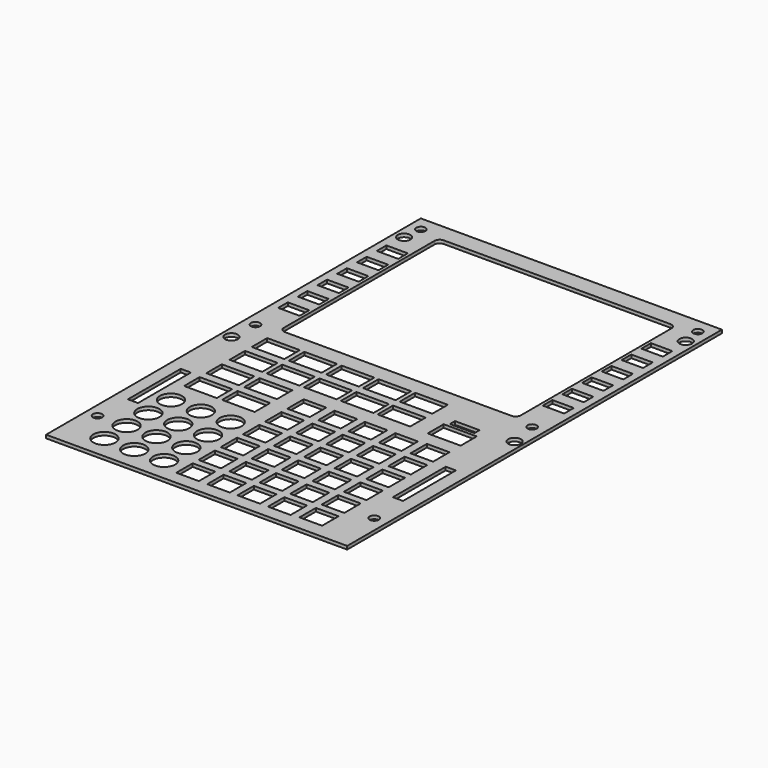
from build123d import *

# Parameters (mm, degrees)
F0_R     = 3.0783701754
F0_R_2   = 3.0694008401
F0_R_3   = 3.0734
F0_R_4   = 2.2209500259
F0_R_5   = 5.3721
F0_R_6   = 5.371402098
F0_W     = 10.9728
F0_H     = 9.9616302735
F0_H_2   = 9.9662298425
F0_R_7   = 5.3689650051
F0_H_3   = 9.9580499146
F0_H_4   = 9.9498699868
F0_W_2   = 4.9276
F0_H_5   = 32.0802
F0_H_6   = 9.9568
F0_R_8   = 2.227429667
F0_R_9   = 2.2179171382
F0_W_3   = 10.414
F0_H_7   = 5.842
F0_W_4   = 10.4202043091
F0_H_8   = 5.8687403347
F0_H_9   = 5.8557569292
F0_H_10  = 5.8308108209
F0_R_10  = 2.2225
F0_W_5   = 15.841782093
F0_H_11  = 9.3845323427
F0_W_6   = 16.036234796
F0_H_12  = 9.7375772893
F0_W_7   = 11.9457282126
F0_H_13  = 3.1131291762
F1_DEPTH = 1.5875


with BuildPart() as f1:
    # F0 (on Top) → F1 (new body)
    with BuildSketch(Plane.XY):
        Polygon((73.0703571429, -113.665), (73.0703571429, 113.665), (0, 113.665), (-73.0703571429, 113.665), (-73.0703571429, -113.665), align=None)
        with Locations((-68.3435052633, -7.1190433962)):
            Circle(F0_R, mode=Mode.SUBTRACT)
        with Locations((69.1050039742, -7.1190433962)):
            Circle(F0_R_2, mode=Mode.SUBTRACT)
        with BuildLine():
            Line((-69.312915206, 111.7357164621), (0, 111.7357164621))
            Line((0, 111.7357164621), (69.312915206, 111.7357164621))
            Line((69.312915206, 111.7357164621), (70.8446985888, 111.7357164621))
            ThreePointArc((70.8446985888, 111.7357164621), (71.742724201, 111.3637420742), (72.1146985888, 110.4657164621))
            Line((72.1146985888, 110.4657164621), (72.1146985888, 108.9375093579))
            Line((72.1146985888, 108.9375093579), (72.1146985888, 104.5530068064))
            ThreePointArc((72.1146985888, 104.5530068064), (71.3707498131, 102.7569555822), (69.5746985888, 102.0130068064))
            Line((69.5746985888, 102.0130068064), (68.3435052633, 102.0130068064))
            ThreePointArc((68.3435052633, 102.0130068064), (65.2400589517, 100.727517254), (63.9545693994, 97.6240709424))
            ThreePointArc((63.9545693994, 97.6240709424), (65.2400589517, 94.5206246308), (68.3435052633, 93.2351350784))
            Line((68.3435052633, 93.2351350784), (69.5746985888, 93.2351350784))
            ThreePointArc((69.5746985888, 93.2351350784), (71.3707498131, 92.4911863026), (72.1146985888, 90.6951350784))
            Line((72.1146985888, 90.6951350784), (72.1146985888, 2.9349678212))
            ThreePointArc((72.1146985888, 2.9349678212), (71.3707498131, 1.138916597), (69.5746985888, 0.3949678212))
            Line((69.5746985888, 0.3949678212), (66.5287750149, 0.3949678212))
            ThreePointArc((66.5287750149, 0.3949678212), (64.7327237907, -0.3489809546), (63.9887750149, -2.1450321788))
            Line((63.9887750149, -2.1450321788), (63.9887750149, -30.4319297588))
            ThreePointArc((63.9887750149, -30.4319297588), (64.7327237907, -32.227980983), (66.5287750149, -32.9719297588))
            Line((66.5287750149, -32.9719297588), (68.1489405847, -32.9719297588))
            ThreePointArc((68.1489405847, -32.9719297588), (69.9449918089, -33.7158785346), (70.6889405847, -35.5119297588))
            Line((70.6889405847, -35.5119297588), (70.6889405847, -91.6318146205))
            ThreePointArc((70.6889405847, -91.6318146205), (69.9449918089, -93.4278658447), (68.1489405847, -94.1718146205))
            Line((68.1489405847, -94.1718146205), (64.1087966347, -94.1718146205))
            ThreePointArc((64.1087966347, -94.1718146205), (62.3127454105, -94.9157633963), (61.5687966347, -96.7118146205))
            Line((61.5687966347, -96.7118146205), (61.5687966347, -107.9170776224))
            ThreePointArc((61.5687966347, -107.9170776224), (60.8248478589, -109.7131288466), (59.0287966347, -110.4570776224))
            Line((59.0287966347, -110.4570776224), (0, -110.4570776224))
            Line((0, -110.4570776224), (-59.0287966347, -110.4570776224))
            ThreePointArc((-59.0287966347, -110.4570776224), (-60.8248478589, -109.7131288466), (-61.5687966347, -107.9170776224))
            Line((-61.5687966347, -107.9170776224), (-61.5687966347, -96.7118146205))
            ThreePointArc((-61.5687966347, -96.7118146205), (-62.3127454105, -94.9157633963), (-64.1087966347, -94.1718146205))
            Line((-64.1087966347, -94.1718146205), (-68.1489405847, -94.1718146205))
            ThreePointArc((-68.1489405847, -94.1718146205), (-69.9449918089, -93.4278658447), (-70.6889405847, -91.6318146205))
            Line((-70.6889405847, -91.6318146205), (-70.6889405847, -35.5119297588))
            ThreePointArc((-70.6889405847, -35.5119297588), (-69.9449918089, -33.7158785346), (-68.1489405847, -32.9719297588))
            Line((-68.1489405847, -32.9719297588), (-66.5287750149, -32.9719297588))
            ThreePointArc((-66.5287750149, -32.9719297588), (-64.7327237907, -32.227980983), (-63.9887750149, -30.4319297588))
            Line((-63.9887750149, -30.4319297588), (-63.9887750149, -2.1450321788))
            ThreePointArc((-63.9887750149, -2.1450321788), (-64.7327237907, -0.3489809546), (-66.5287750149, 0.3949678212))
            Line((-66.5287750149, 0.3949678212), (-69.5746985888, 0.3949678212))
            ThreePointArc((-69.5746985888, 0.3949678212), (-71.3707498131, 1.138916597), (-72.1146985888, 2.9349678212))
            Line((-72.1146985888, 2.9349678212), (-72.1146985888, 90.6951350784))
            ThreePointArc((-72.1146985888, 90.6951350784), (-71.3707498131, 92.4911863026), (-69.5746985888, 93.2351350784))
            Line((-69.5746985888, 93.2351350784), (-68.3435052633, 93.2351350784))
            ThreePointArc((-68.3435052633, 93.2351350784), (-65.2400589517, 94.5206246308), (-63.9545693994, 97.6240709424))
            ThreePointArc((-63.9545693994, 97.6240709424), (-65.2400589517, 100.727517254), (-68.3435052633, 102.0130068064))
            Line((-68.3435052633, 102.0130068064), (-69.5746985888, 102.0130068064))
            ThreePointArc((-69.5746985888, 102.0130068064), (-71.3707498131, 102.7569555822), (-72.1146985888, 104.5530068064))
            Line((-72.1146985888, 104.5530068064), (-72.1146985888, 108.9375093579))
            Line((-72.1146985888, 108.9375093579), (-72.1146985888, 110.4657164621))
            ThreePointArc((-72.1146985888, 110.4657164621), (-71.742724201, 111.3637420742), (-70.8446985888, 111.7357164621))
            Line((-70.8446985888, 111.7357164621), (-69.312915206, 111.7357164621))
        make_face(mode=Mode.SUBTRACT)
        with Locations((-68.3435052633, 97.6240709424)):
            Circle(F0_R_3, mode=Mode.SUBTRACT)
        with BuildLine():
            ThreePointArc((71.4169052633, 97.6240709424), (68.3435052633, 94.5506709424), (65.2701052633, 97.6240709424))
            ThreePointArc((65.2701052633, 97.6240709424), (68.3435052633, 100.6974709424), (71.4169052633, 97.6240709424))
        make_face(mode=Mode.SUBTRACT)
        with BuildLine():
            Line((-57.5045533478, 97.6240709424), (-63.9545693994, 97.6240709424))
            ThreePointArc((-63.9545693994, 97.6240709424), (-65.2400589517, 94.5206246308), (-68.3435052633, 93.2351350784))
            Line((-68.3435052633, 93.2351350784), (-69.5746985888, 93.2351350784))
            ThreePointArc((-69.5746985888, 93.2351350784), (-71.3707498131, 92.4911863026), (-72.1146985888, 90.6951350784))
            Line((-72.1146985888, 90.6951350784), (-72.1146985888, 2.9349678212))
            ThreePointArc((-72.1146985888, 2.9349678212), (-71.3707498131, 1.138916597), (-69.5746985888, 0.3949678212))
            Line((-69.5746985888, 0.3949678212), (-66.5287750149, 0.3949678212))
            ThreePointArc((-66.5287750149, 0.3949678212), (-64.7327237907, -0.3489809546), (-63.9887750149, -2.1450321788))
            Line((-63.9887750149, -2.1450321788), (-63.9887750149, -30.4319297588))
            ThreePointArc((-63.9887750149, -30.4319297588), (-64.7327237907, -32.227980983), (-66.5287750149, -32.9719297588))
            Line((-66.5287750149, -32.9719297588), (-68.1489405847, -32.9719297588))
            ThreePointArc((-68.1489405847, -32.9719297588), (-69.9449918089, -33.7158785346), (-70.6889405847, -35.5119297588))
            Line((-70.6889405847, -35.5119297588), (-70.6889405847, -91.6318146205))
            ThreePointArc((-70.6889405847, -91.6318146205), (-69.9449918089, -93.4278658447), (-68.1489405847, -94.1718146205))
            Line((-68.1489405847, -94.1718146205), (-64.1087966347, -94.1718146205))
            ThreePointArc((-64.1087966347, -94.1718146205), (-62.3127454105, -94.9157633963), (-61.5687966347, -96.7118146205))
            Line((-61.5687966347, -96.7118146205), (-61.5687966347, -107.9170776224))
            ThreePointArc((-61.5687966347, -107.9170776224), (-60.8248478589, -109.7131288466), (-59.0287966347, -110.4570776224))
            Line((-59.0287966347, -110.4570776224), (0, -110.4570776224))
            Line((0, -110.4570776224), (59.0287966347, -110.4570776224))
            ThreePointArc((59.0287966347, -110.4570776224), (60.8248478589, -109.7131288466), (61.5687966347, -107.9170776224))
            Line((61.5687966347, -107.9170776224), (61.5687966347, -96.7118146205))
            ThreePointArc((61.5687966347, -96.7118146205), (62.3127454105, -94.9157633963), (64.1087966347, -94.1718146205))
            Line((64.1087966347, -94.1718146205), (68.1489405847, -94.1718146205))
            ThreePointArc((68.1489405847, -94.1718146205), (69.9449918089, -93.4278658447), (70.6889405847, -91.6318146205))
            Line((70.6889405847, -91.6318146205), (70.6889405847, -35.5119297588))
            ThreePointArc((70.6889405847, -35.5119297588), (69.9449918089, -33.7158785346), (68.1489405847, -32.9719297588))
            Line((68.1489405847, -32.9719297588), (66.5287750149, -32.9719297588))
            ThreePointArc((66.5287750149, -32.9719297588), (64.7327237907, -32.227980983), (63.9887750149, -30.4319297588))
            Line((63.9887750149, -30.4319297588), (63.9887750149, -2.1450321788))
            ThreePointArc((63.9887750149, -2.1450321788), (64.7327237907, -0.3489809546), (66.5287750149, 0.3949678212))
            Line((66.5287750149, 0.3949678212), (69.5746985888, 0.3949678212))
            ThreePointArc((69.5746985888, 0.3949678212), (71.3707498131, 1.138916597), (72.1146985888, 2.9349678212))
            Line((72.1146985888, 2.9349678212), (72.1146985888, 90.6951350784))
            ThreePointArc((72.1146985888, 90.6951350784), (71.3707498131, 92.4911863026), (69.5746985888, 93.2351350784))
            Line((69.5746985888, 93.2351350784), (68.3435052633, 93.2351350784))
            ThreePointArc((68.3435052633, 93.2351350784), (65.2400589517, 94.5206246308), (63.9545693994, 97.6240709424))
            Line((63.9545693994, 97.6240709424), (57.5045533478, 97.6240709424))
            Line((57.5045533478, 97.6240709424), (57.5045533478, 11.1427272046))
            ThreePointArc((57.5045533478, 11.1427272046), (56.760604572, 9.3466759803), (54.9645533478, 8.6027272046))
            Line((54.9645533478, 8.6027272046), (0, 8.6027272046))
            Line((0, 8.6027272046), (-54.9645533478, 8.6027272046))
            ThreePointArc((-54.9645533478, 8.6027272046), (-56.760604572, 9.3466759803), (-57.5045533478, 11.1427272046))
            Line((-57.5045533478, 11.1427272046), (-57.5045533478, 97.6240709424))
        make_face()
        with Locations((-67.5295889378, -89.383713901)):
            Circle(F0_R_4, mode=Mode.SUBTRACT)
        with Locations((-53.8924448192, -102.2618189454)):
            Circle(F0_R_5, mode=Mode.SUBTRACT)
        with Locations((-39.3889211118, -102.2618189454)):
            Circle(F0_R_5, mode=Mode.SUBTRACT)
        with Locations((-53.8924448192, -88.8074412942)):
            Circle(F0_R_5, mode=Mode.SUBTRACT)
        with Locations((-39.3889211118, -88.8074412942)):
            Circle(F0_R_5, mode=Mode.SUBTRACT)
        with Locations((-53.8924448192, -75.584217906)):
            Circle(F0_R_5, mode=Mode.SUBTRACT)
        with Locations((-39.3889211118, -75.584217906)):
            Circle(F0_R_5, mode=Mode.SUBTRACT)
        with Locations((-53.8924448192, -61.8757456541)):
            Circle(F0_R_6, mode=Mode.SUBTRACT)
        with Locations((-39.3889211118, -61.8757456541)):
            Circle(F0_R_5, mode=Mode.SUBTRACT)
        with Locations((-24.9092504382, -102.2618189454)):
            Circle(F0_R_5, mode=Mode.SUBTRACT)
        with Locations((-24.9092504382, -88.8074412942)):
            Circle(F0_R_5, mode=Mode.SUBTRACT)
        with Locations((-9.528928303, -102.2641188744)):
            Rectangle(F0_W, F0_H, mode=Mode.SUBTRACT)
        with Locations((-9.528928303, -88.8021188744)):
            Rectangle(F0_W, F0_H_2, mode=Mode.SUBTRACT)
        with Locations((-24.9092504382, -75.584217906)):
            Circle(F0_R_5, mode=Mode.SUBTRACT)
        with Locations((-24.9092504382, -61.8757456541)):
            Circle(F0_R_7, mode=Mode.SUBTRACT)
        with Locations((-9.528928303, -75.3401188744)):
            Rectangle(F0_W, F0_H_3, mode=Mode.SUBTRACT)
        with Locations((-9.528928303, -61.8781188744)):
            Rectangle(F0_W, F0_H_4, mode=Mode.SUBTRACT)
        with Locations((-64.5344118643, -55.6010992908)):
            Rectangle(F0_W_2, F0_H_5, mode=Mode.SUBTRACT)
        with Locations((-9.528928303, -48.4161188744)):
            Rectangle(F0_W, F0_H_6, mode=Mode.SUBTRACT)
        with Locations((-9.528928303, -34.9541188744)):
            Rectangle(F0_W, F0_H_6, mode=Mode.SUBTRACT)
        with BuildLine():
            ThreePointArc((-60.77754125, 2.0499432153), (-60.0335924742, 3.8459944395), (-58.23754125, 4.5899432153))
            Line((-58.23754125, 4.5899432153), (0, 4.5899432153))
            Line((0, 4.5899432153), (57.4959849632, 4.5899432153))
            ThreePointArc((57.4959849632, 4.5899432153), (59.2920361874, 3.8459944395), (60.0359849632, 2.0499432153))
            Line((60.0359849632, 2.0499432153), (60.0359849632, -23.0634694612))
            ThreePointArc((60.0359849632, -23.0634694612), (59.2920361874, -24.8595206854), (57.4959849632, -25.6034694612))
            Line((57.4959849632, -25.6034694612), (-16.4532081848, -25.6034694612))
            ThreePointArc((-16.4532081848, -25.6034694612), (-18.2492594091, -26.347418237), (-18.9932081848, -28.1434694612))
            Line((-18.9932081848, -28.1434694612), (-18.9932081848, -49.7243886507))
            ThreePointArc((-18.9932081848, -49.7243886507), (-19.7371569606, -51.5204398749), (-21.5332081848, -52.2643886507))
            Line((-21.5332081848, -52.2643886507), (-58.23754125, -52.2643886507))
            ThreePointArc((-58.23754125, -52.2643886507), (-60.0335924742, -51.5204398749), (-60.77754125, -49.7243886507))
            Line((-60.77754125, -49.7243886507), (-60.77754125, 2.0499432153))
        make_face(mode=Mode.SUBTRACT)
        with Locations((5.4864, -102.2641188744)):
            Rectangle(F0_W, F0_H, mode=Mode.SUBTRACT)
        with Locations((5.4864, -88.8021188744)):
            Rectangle(F0_W, F0_H_2, mode=Mode.SUBTRACT)
        with Locations((20.1386223949, -102.2641188744)):
            Rectangle(F0_W, F0_H, mode=Mode.SUBTRACT)
        with Locations((34.9722217239, -102.2641188744)):
            Rectangle(F0_W, F0_H, mode=Mode.SUBTRACT)
        with Locations((20.1386223949, -88.8021188744)):
            Rectangle(F0_W, F0_H_2, mode=Mode.SUBTRACT)
        with Locations((34.9722217239, -88.8021188744)):
            Rectangle(F0_W, F0_H_2, mode=Mode.SUBTRACT)
        with Locations((5.4864, -75.3401188744)):
            Rectangle(F0_W, F0_H_3, mode=Mode.SUBTRACT)
        with Locations((5.4864, -61.8781188744)):
            Rectangle(F0_W, F0_H_4, mode=Mode.SUBTRACT)
        with Locations((20.1386223949, -75.3401188744)):
            Rectangle(F0_W, F0_H_3, mode=Mode.SUBTRACT)
        with Locations((34.9722217239, -75.3401188744)):
            Rectangle(F0_W, F0_H_3, mode=Mode.SUBTRACT)
        with Locations((20.1386223949, -61.8781188744)):
            Rectangle(F0_W, F0_H_4, mode=Mode.SUBTRACT)
        with Locations((34.9722217239, -61.8781188744)):
            Rectangle(F0_W, F0_H_4, mode=Mode.SUBTRACT)
        with Locations((49.8058222801, -101.6926295403)):
            Rectangle(F0_W, F0_H, mode=Mode.SUBTRACT)
        with Locations((49.8058222801, -88.2306295403)):
            Rectangle(F0_W, F0_H_2, mode=Mode.SUBTRACT)
        with Locations((66.8233931065, -89.4396826625)):
            Circle(F0_R_8, mode=Mode.SUBTRACT)
        with Locations((49.8058222801, -74.7686295403)):
            Rectangle(F0_W, F0_H_3, mode=Mode.SUBTRACT)
        with Locations((49.8058222801, -61.3066295403)):
            Rectangle(F0_W, F0_H_4, mode=Mode.SUBTRACT)
        with Locations((5.4864, -48.4161188744)):
            Rectangle(F0_W, F0_H_6, mode=Mode.SUBTRACT)
        with Locations((5.4864, -34.9541188744)):
            Rectangle(F0_W, F0_H_6, mode=Mode.SUBTRACT)
        with Locations((20.1386223949, -48.4161188744)):
            Rectangle(F0_W, F0_H_6, mode=Mode.SUBTRACT)
        with Locations((34.9722217239, -48.4161188744)):
            Rectangle(F0_W, F0_H_6, mode=Mode.SUBTRACT)
        with Locations((20.1386223949, -34.9541188744)):
            Rectangle(F0_W, F0_H_6, mode=Mode.SUBTRACT)
        with Locations((34.9722217239, -34.9541188744)):
            Rectangle(F0_W, F0_H_6, mode=Mode.SUBTRACT)
        with Locations((49.8058222801, -47.8446295403)):
            Rectangle(F0_W, F0_H_6, mode=Mode.SUBTRACT)
        with Locations((49.8058222801, -34.3826295403)):
            Rectangle(F0_W, F0_H_6, mode=Mode.SUBTRACT)
        with Locations((64.0780319404, -55.6010992908)):
            Rectangle(F0_W_2, F0_H_5, mode=Mode.SUBTRACT)
        with Locations((-67.5295889378, 6.4538870938)):
            Circle(F0_R_9, mode=Mode.SUBTRACT)
        with Locations((-64.2052970132, 25.4660822943)):
            Rectangle(F0_W_3, F0_H_7, mode=Mode.SUBTRACT)
        with Locations((-64.2052970132, 37.3290566266)):
            Rectangle(F0_W_3, F0_H_7, mode=Mode.SUBTRACT)
        with Locations((-64.2052970132, 49.3121741972)):
            Rectangle(F0_W_3, F0_H_7, mode=Mode.SUBTRACT)
        with Locations((-64.2083991677, 61.3219178988)):
            Rectangle(F0_W_4, F0_H_8, mode=Mode.SUBTRACT)
        with Locations((-64.2083991677, 73.333547975)):
            Rectangle(F0_W_4, F0_H_9, mode=Mode.SUBTRACT)
        with Locations((-64.2083991677, 85.2885104)):
            Rectangle(F0_W_4, F0_H_10, mode=Mode.SUBTRACT)
        with Locations((66.8091401458, 6.353281904)):
            Circle(F0_R_10, mode=Mode.SUBTRACT)
        with Locations((64.2052970132, 25.4660822943)):
            Rectangle(F0_W_3, F0_H_7, mode=Mode.SUBTRACT)
        with Locations((64.2052970132, 37.3290566266)):
            Rectangle(F0_W_3, F0_H_7, mode=Mode.SUBTRACT)
        with Locations((64.2052970132, 49.3121741972)):
            Rectangle(F0_W_3, F0_H_7, mode=Mode.SUBTRACT)
        with Locations((64.2083991677, 61.3219178988)):
            Rectangle(F0_W_4, F0_H_8, mode=Mode.SUBTRACT)
        with Locations((64.2083991677, 73.333547975)):
            Rectangle(F0_W_4, F0_H_9, mode=Mode.SUBTRACT)
        with Locations((64.2083991677, 85.2885104)):
            Rectangle(F0_W_4, F0_H_10, mode=Mode.SUBTRACT)
        with BuildLine():
            Line((0, 4.5899432153), (-58.23754125, 4.5899432153))
            ThreePointArc((-58.23754125, 4.5899432153), (-60.0335924742, 3.8459944395), (-60.77754125, 2.0499432153))
            Line((-60.77754125, 2.0499432153), (-60.77754125, -49.7243886507))
            ThreePointArc((-60.77754125, -49.7243886507), (-60.0335924742, -51.5204398749), (-58.23754125, -52.2643886507))
            Line((-58.23754125, -52.2643886507), (-21.5332081848, -52.2643886507))
            ThreePointArc((-21.5332081848, -52.2643886507), (-19.7371569606, -51.5204398749), (-18.9932081848, -49.7243886507))
            Line((-18.9932081848, -49.7243886507), (-18.9932081848, -28.1434694612))
            ThreePointArc((-18.9932081848, -28.1434694612), (-18.2492594091, -26.347418237), (-16.4532081848, -25.6034694612))
            Line((-16.4532081848, -25.6034694612), (57.4959849632, -25.6034694612))
            ThreePointArc((57.4959849632, -25.6034694612), (59.2920361874, -24.8595206854), (60.0359849632, -23.0634694612))
            Line((60.0359849632, -23.0634694612), (60.0359849632, 2.0499432153))
            ThreePointArc((60.0359849632, 2.0499432153), (59.2920361874, 3.8459944395), (57.4959849632, 4.5899432153))
            Line((57.4959849632, 4.5899432153), (0, 4.5899432153))
        make_face()
        with Locations((-49.2591075599, -45.097386057)):
            Rectangle(F0_W_5, F0_H_11, mode=Mode.SUBTRACT)
        with Locations((-49.2591075599, -31.6426153877)):
            Rectangle(F0_W_5, F0_H_11, mode=Mode.SUBTRACT)
        with Locations((-49.2591075599, -17.5489928224)):
            Rectangle(F0_W_5, F0_H_11, mode=Mode.SUBTRACT)
        with Locations((-49.2591075599, -4.0942221531)):
            Rectangle(F0_W_5, F0_H_11, mode=Mode.SUBTRACT)
        with Locations((-30.9125762433, -45.0321226963)):
            Rectangle(F0_W_5, F0_H_11, mode=Mode.SUBTRACT)
        with Locations((-30.9125762433, -31.5773520269)):
            Rectangle(F0_W_5, F0_H_11, mode=Mode.SUBTRACT)
        with Locations((-31.2140248716, -17.5489928224)):
            Rectangle(F0_W_5, F0_H_11, mode=Mode.SUBTRACT)
        with Locations((-31.2140248716, -4.0942221531)):
            Rectangle(F0_W_5, F0_H_11, mode=Mode.SUBTRACT)
        with Locations((-13.1043177098, -17.5489928224)):
            Rectangle(F0_W_5, F0_H_11, mode=Mode.SUBTRACT)
        with Locations((-13.1043177098, -4.0942221531)):
            Rectangle(F0_W_5, F0_H_11, mode=Mode.SUBTRACT)
        with Locations((4.7673622612, -17.548992706)):
            Rectangle(F0_W_5, F0_H_11, mode=Mode.SUBTRACT)
        with Locations((4.7673622612, -4.0942220367)):
            Rectangle(F0_W_5, F0_H_11, mode=Mode.SUBTRACT)
        with Locations((22.5731134415, -17.5489928224)):
            Rectangle(F0_W_5, F0_H_11, mode=Mode.SUBTRACT)
        with Locations((22.5731134415, -4.0942221531)):
            Rectangle(F0_W_5, F0_H_11, mode=Mode.SUBTRACT)
        with Locations((47.244604677, -17.6919586957)):
            Rectangle(F0_W_6, F0_H_12, mode=Mode.SUBTRACT)
        with Locations((46.9369124621, -9.7100404091)):
            Rectangle(F0_W_7, F0_H_13, mode=Mode.SUBTRACT)
        with BuildLine():
            Line((69.312915206, 111.7357164621), (0, 111.7357164621))
            Line((0, 111.7357164621), (-69.312915206, 111.7357164621))
            Line((-69.312915206, 111.7357164621), (-70.8446985888, 111.7357164621))
            ThreePointArc((-70.8446985888, 111.7357164621), (-71.742724201, 111.3637420742), (-72.1146985888, 110.4657164621))
            Line((-72.1146985888, 110.4657164621), (-72.1146985888, 108.9375093579))
            Line((-72.1146985888, 108.9375093579), (-72.1146985888, 104.5530068064))
            ThreePointArc((-72.1146985888, 104.5530068064), (-71.3707498131, 102.7569555822), (-69.5746985888, 102.0130068064))
            Line((-69.5746985888, 102.0130068064), (-68.3435052633, 102.0130068064))
            ThreePointArc((-68.3435052633, 102.0130068064), (-65.2400589517, 100.727517254), (-63.9545693994, 97.6240709424))
            Line((-63.9545693994, 97.6240709424), (-57.5045533478, 97.6240709424))
            Line((-57.5045533478, 97.6240709424), (-57.5045533478, 102.4872732973))
            ThreePointArc((-57.5045533478, 102.4872732973), (-56.760604572, 104.2833245215), (-54.9645533478, 105.0272732973))
            Line((-54.9645533478, 105.0272732973), (0, 105.0272732973))
            Line((0, 105.0272732973), (54.9645533478, 105.0272732973))
            ThreePointArc((54.9645533478, 105.0272732973), (56.760604572, 104.2833245215), (57.5045533478, 102.4872732973))
            Line((57.5045533478, 102.4872732973), (57.5045533478, 97.6240709424))
            Line((57.5045533478, 97.6240709424), (63.9545693994, 97.6240709424))
            ThreePointArc((63.9545693994, 97.6240709424), (65.2400589517, 100.727517254), (68.3435052633, 102.0130068064))
            Line((68.3435052633, 102.0130068064), (69.5746985888, 102.0130068064))
            ThreePointArc((69.5746985888, 102.0130068064), (71.3707498131, 102.7569555822), (72.1146985888, 104.5530068064))
            Line((72.1146985888, 104.5530068064), (72.1146985888, 108.9375093579))
            Line((72.1146985888, 108.9375093579), (72.1146985888, 110.4657164621))
            ThreePointArc((72.1146985888, 110.4657164621), (71.742724201, 111.3637420742), (70.8446985888, 111.7357164621))
            Line((70.8446985888, 111.7357164621), (69.312915206, 111.7357164621))
        make_face()
        with Locations((-67.4123093486, 106.6407710314)):
            Circle(F0_R_10, mode=Mode.SUBTRACT)
        with Locations((66.9948607683, 106.6855415702)):
            Circle(F0_R_10, mode=Mode.SUBTRACT)
    extrude(amount=F1_DEPTH)


solid = f1.part
